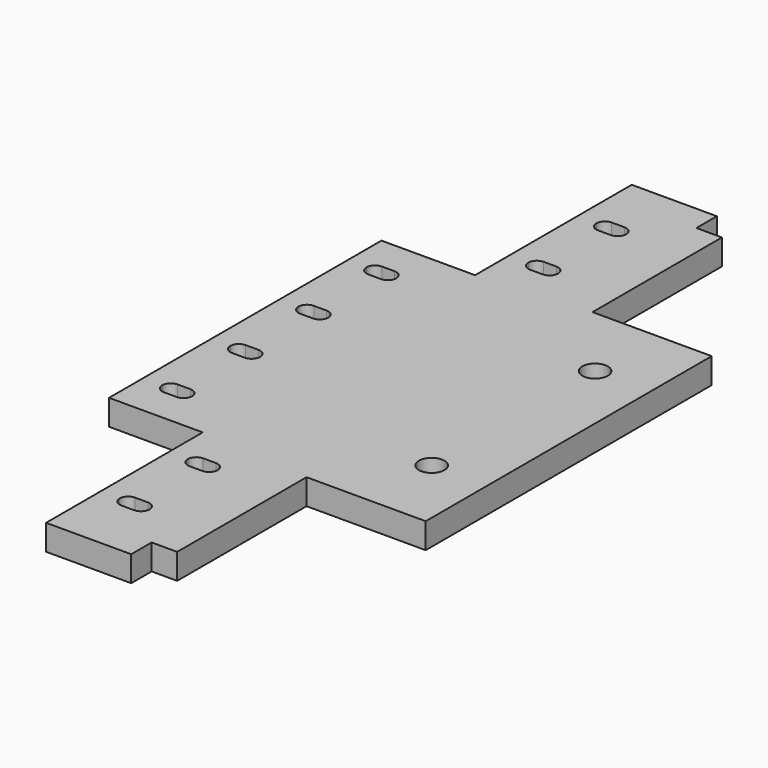
from build123d import *

# Parameters (mm, degrees)
F0_R     = 1.5
F1_DEPTH = 1.5


with BuildPart() as f1:
    # F0 (on Top) → F1 (new body, symmetric)
    with BuildSketch(Plane.XY):
        Polygon((9.39682, 26.276459), (9.396826, 3.276474), (19.396826, 3.276474), (19.396826, 6.276474), (22.396826, 6.276474), (22.396826, 25.276474), (36.396826, 25.276474), (36.396826, 67.276474), (22.396826, 67.276474), (22.396826, 86.276474), (19.396826, 86.276474), (19.396826, 89.276474), (9.396826, 89.276474), (9.396826, 66.276474), (-1.603174, 66.276474), (-1.603197, 26.276459), align=None)
        with BuildLine():
            ThreePointArc((12.646826, 10.276474), (11.939719, 10.569367), (11.646826, 11.276474))
            ThreePointArc((11.646826, 11.276474), (11.939719, 11.983581), (12.646826, 12.276474))
            Line((12.646826, 12.276474), (14.146826, 12.276474))
            ThreePointArc((14.146826, 12.276474), (14.853933, 11.983581), (15.146826, 11.276474))
            ThreePointArc((15.146826, 11.276474), (14.853933, 10.569367), (14.146826, 10.276474))
            Line((14.146826, 10.276474), (12.646826, 10.276474))
        make_face(mode=Mode.SUBTRACT)
        with BuildLine():
            ThreePointArc((12.646826, 20.276474), (11.939719, 20.569367), (11.646826, 21.276474))
            ThreePointArc((11.646826, 21.276474), (11.939719, 21.983581), (12.646826, 22.276474))
            Line((12.646826, 22.276474), (14.146826, 22.276474))
            ThreePointArc((14.146826, 22.276474), (14.853933, 21.983581), (15.146826, 21.276474))
            ThreePointArc((15.146826, 21.276474), (14.853933, 20.569367), (14.146826, 20.276474))
            Line((14.146826, 20.276474), (12.646826, 20.276474))
        make_face(mode=Mode.SUBTRACT)
        with BuildLine():
            ThreePointArc((1.646826, 30.276474), (0.939719, 30.569367), (0.646826, 31.276474))
            ThreePointArc((0.646826, 31.276474), (0.939719, 31.983581), (1.646826, 32.276474))
            Line((1.646826, 32.276474), (3.146826, 32.276474))
            ThreePointArc((3.146826, 32.276474), (3.853933, 31.983581), (4.146826, 31.276474))
            ThreePointArc((4.146826, 31.276474), (3.853933, 30.569367), (3.146826, 30.276474))
            Line((3.146826, 30.276474), (1.646826, 30.276474))
        make_face(mode=Mode.SUBTRACT)
        with BuildLine():
            ThreePointArc((1.646826, 40.276474), (0.939719, 40.569367), (0.646826, 41.276474))
            ThreePointArc((0.646826, 41.276474), (0.939719, 41.983581), (1.646826, 42.276474))
            Line((1.646826, 42.276474), (3.146826, 42.276474))
            ThreePointArc((3.146826, 42.276474), (3.853933, 41.983581), (4.146826, 41.276474))
            ThreePointArc((4.146826, 41.276474), (3.853933, 40.569367), (3.146826, 40.276474))
            Line((3.146826, 40.276474), (1.646826, 40.276474))
        make_face(mode=Mode.SUBTRACT)
        with Locations((29.896826, 34.276474)):
            Circle(F0_R, mode=Mode.SUBTRACT)
        with BuildLine():
            ThreePointArc((1.646826, 50.276474), (0.939719, 50.569367), (0.646826, 51.276474))
            ThreePointArc((0.646826, 51.276474), (0.939719, 51.983581), (1.646826, 52.276474))
            Line((1.646826, 52.276474), (3.146826, 52.276474))
            ThreePointArc((3.146826, 52.276474), (3.853933, 51.983581), (4.146826, 51.276474))
            ThreePointArc((4.146826, 51.276474), (3.853933, 50.569367), (3.146826, 50.276474))
            Line((3.146826, 50.276474), (1.646826, 50.276474))
        make_face(mode=Mode.SUBTRACT)
        with BuildLine():
            ThreePointArc((1.646826, 60.276474), (0.939719, 60.569367), (0.646826, 61.276474))
            ThreePointArc((0.646826, 61.276474), (0.939719, 61.983581), (1.646826, 62.276474))
            Line((1.646826, 62.276474), (3.146826, 62.276474))
            ThreePointArc((3.146826, 62.276474), (3.853933, 61.983581), (4.146826, 61.276474))
            ThreePointArc((4.146826, 61.276474), (3.853933, 60.569367), (3.146826, 60.276474))
            Line((3.146826, 60.276474), (1.646826, 60.276474))
        make_face(mode=Mode.SUBTRACT)
        with BuildLine():
            ThreePointArc((12.646826, 70.276474), (11.939719, 70.569367), (11.646826, 71.276474))
            ThreePointArc((11.646826, 71.276474), (11.939719, 71.983581), (12.646826, 72.276474))
            Line((12.646826, 72.276474), (14.146826, 72.276474))
            ThreePointArc((14.146826, 72.276474), (14.853933, 71.983581), (15.146826, 71.276474))
            ThreePointArc((15.146826, 71.276474), (14.853933, 70.569367), (14.146826, 70.276474))
            Line((14.146826, 70.276474), (12.646826, 70.276474))
        make_face(mode=Mode.SUBTRACT)
        with BuildLine():
            ThreePointArc((12.646826, 80.276474), (11.939719, 80.569367), (11.646826, 81.276474))
            ThreePointArc((11.646826, 81.276474), (11.939719, 81.983581), (12.646826, 82.276474))
            Line((12.646826, 82.276474), (14.146826, 82.276474))
            ThreePointArc((14.146826, 82.276474), (14.853933, 81.983581), (15.146826, 81.276474))
            ThreePointArc((15.146826, 81.276474), (14.853933, 80.569367), (14.146826, 80.276474))
            Line((14.146826, 80.276474), (12.646826, 80.276474))
        make_face(mode=Mode.SUBTRACT)
        with Locations((29.896826, 58.276474)):
            Circle(F0_R, mode=Mode.SUBTRACT)
    extrude(amount=F1_DEPTH, both=True)


solid = f1.part
